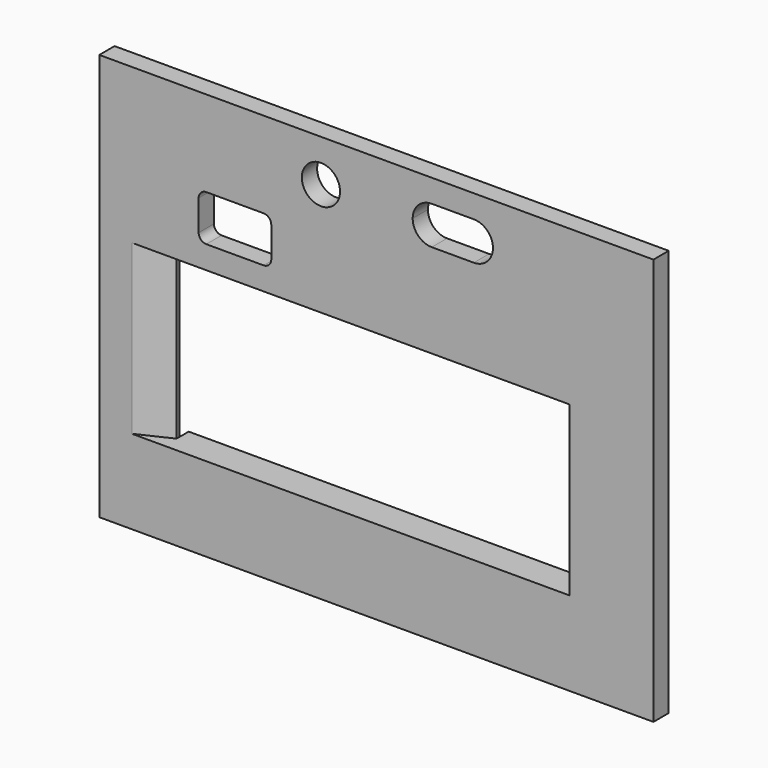
from build123d import *

# Parameters (mm, degrees)
F0_W     = 145
F0_H     = 106.5
F0_W_2   = 106
F0_H_2   = 44
F0_R     = 5
F1_DEPTH = 5
F2_SIZE2 = 8.5
F2_SIZE  = 4
F4_DEPTH = 3


with BuildPart() as f1:
    # F0 (on Front) → F1 (new body)
    with BuildSketch(Plane.XZ):
        with Locations((72.5, 53.25)):
            Rectangle(F0_W, F0_H)
        with Locations((70, 44)):
            Rectangle(F0_W_2, F0_H_2, mode=Mode.SUBTRACT)
        with BuildLine():
            ThreePointArc((26, 82), (26.585786, 83.414214), (28, 84))
            Line((28, 84), (43, 84))
            ThreePointArc((43, 84), (44.414214, 83.414214), (45, 82))
            Line((45, 82), (45, 74))
            ThreePointArc((45, 74), (44.414214, 72.585786), (43, 72))
            Line((43, 72), (28, 72))
            ThreePointArc((28, 72), (26.585786, 72.585786), (26, 74))
            Line((26, 74), (26, 82))
        make_face(mode=Mode.SUBTRACT)
        with Locations((58, 95.5)):
            Circle(F0_R, mode=Mode.SUBTRACT)
        with BuildLine():
            Line((87, 100.5), (98, 100.5))
            ThreePointArc((98, 100.5), (101.535534, 99.035534), (103, 95.5))
            ThreePointArc((103, 95.5), (101.535534, 91.964466), (98, 90.5))
            Line((98, 90.5), (87, 90.5))
            ThreePointArc((87, 90.5), (83.464466, 91.964466), (82, 95.5))
            ThreePointArc((82, 95.5), (83.464466, 99.035534), (87, 100.5))
        make_face(mode=Mode.SUBTRACT)
    extrude(amount=-F1_DEPTH)

    # F2
    f2_edges = [f1.edges().sort_by_distance(p)[0] for p in [
        (17, 0, 44),
    ]]
    chamfer(f2_edges, length=F2_SIZE, length2=F2_SIZE2)

    # F3 (on face) → F4 (join)
    with BuildSketch(Plane(origin=(0, 5, 0), x_dir=(-1, 0, 0), z_dir=(0, 1, 0))):
        Polygon((-123, 66), (-17, 66), (-17, 69), (-126, 69), (-126, 19), (-17, 19), (-17, 22), (-123, 22), align=None)
    extrude(amount=F4_DEPTH)


solid = f1.part
